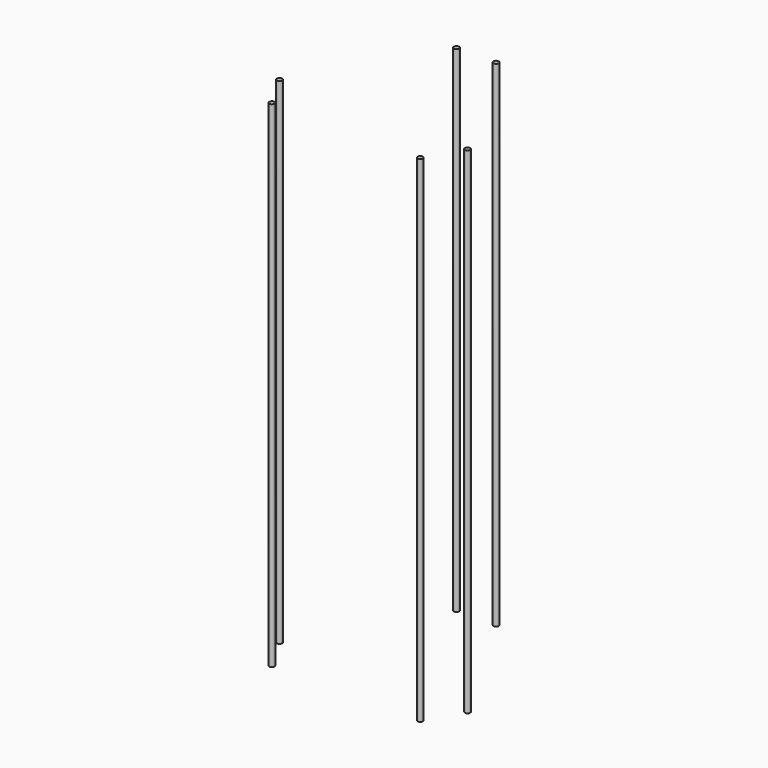
from build123d import *

# Parameters (mm, degrees)
CYLINDER005_R     = 4
CYLINDER005_DEPTH = 750
ARRAY004_COUNT    = 3


with BuildPart() as cylinder004:
    # Cylinder005 → Cylinder005 (new body)
    with BuildSketch(Plane(origin=(-30, 146.969385, 0), x_dir=(1, 0, 0), z_dir=(0, 0, 1))):
        Circle(CYLINDER005_R)
    extrude(amount=CYLINDER005_DEPTH)


with BuildPart() as array004:
    # Clone base: copy of Cylinder004
    add(cylinder004.part)


with BuildPart() as array004_1:
    # Clone placement: moved
    add(array004.part.moved(Location((60, -0.000385, 0))))

    # Fusion001: union Cylinder004
    add(cylinder004.part)


with BuildPart() as array004_2:
    # Fusion001 placement: moved
    add(array004_1.part.moved(Location((0, 0, -104))))


with BuildPart() as array004_copy1:
    # Array004: instance of Array004
    add(array004_2.part.rotate(Axis((0, 0, 0), (0, 0, 1)), 1 * 360 / ARRAY004_COUNT))


with BuildPart() as array004_copy2:
    # Array004: instance of Array004
    add(array004_2.part.rotate(Axis((0, 0, 0), (0, 0, 1)), 2 * 360 / ARRAY004_COUNT))


solid = Compound([array004_2.part, array004_copy1.part, array004_copy2.part])
